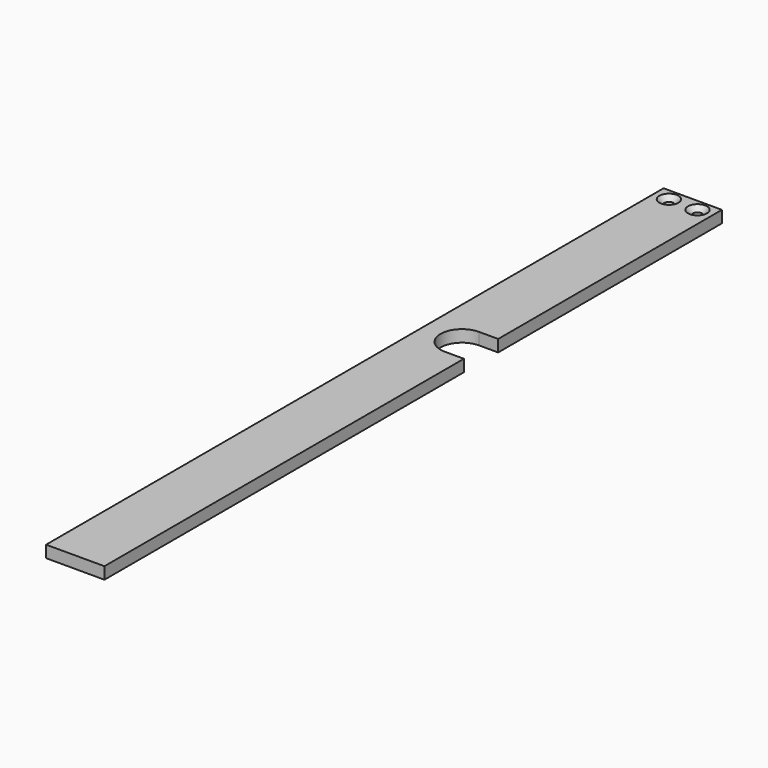
from build123d import *

# Parameters (mm, degrees)
PAD028_DEPTH    = 5
SKETCH060_R     = 2
POCKET038_DEPTH = 5.001
CHAMFER022_SIZE = 2


with BuildPart() as part:
    # Sketch055 → Pad028 (new body)
    with BuildSketch(Plane.XY):
        with BuildLine():
            Line((98.676816, 80.800335), (98.676816, -107.8))
            Line((98.676816, -107.8), (74.176816, -107.8))
            Line((74.176816, -107.8), (74.176816, 216.2))
            Line((74.176816, 216.2), (98.676816, 216.2))
            Line((98.676816, 216.2), (98.676816, 98.800335))
            Line((90.676816, 98.800335), (98.676816, 98.800335))
            ThreePointArc((90.676816, 98.800335), (81.676816, 89.800335), (90.676816, 80.800335))
            Line((90.676816, 80.800335), (98.676816, 80.800335))
        make_face()
    extrude(amount=PAD028_DEPTH)

    # Sketch060 (on Face10 of Pad028) → Pocket038 (cut, through all)
    with BuildSketch(Plane.XY.offset(5)):
        with Locations((80.426816, 211.2)):
            Circle(SKETCH060_R)
        with Locations((92.426816, 211.2)):
            Circle(SKETCH060_R)
    extrude(amount=-POCKET038_DEPTH, mode=Mode.SUBTRACT)

    # Chamfer022
    chamfer022_edges = [part.edges().sort_by_distance(p)[0] for p in [
        (78.426816, 211.2, 5),
        (90.426816, 211.2, 5),
    ]]
    chamfer(chamfer022_edges, length=CHAMFER022_SIZE)


with BuildPart() as part_1:
    # Body021 placement: moved
    add(part.part.moved(Location((-150, 0, 15.5))))


solid = part_1.part
